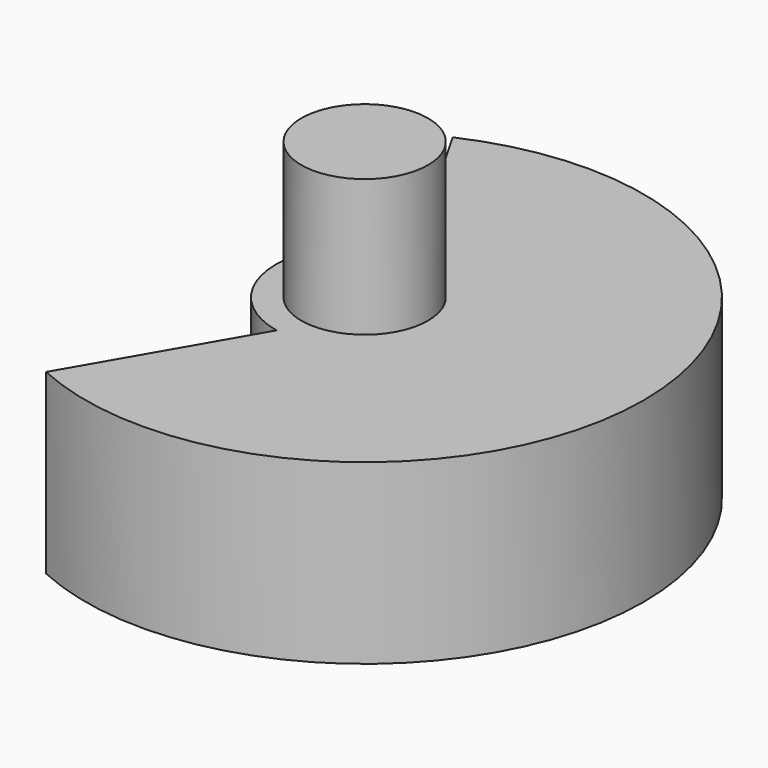
from build123d import *

# Parameters (mm, degrees)
F0_R     = 1.5875
F0_R_2   = 1.6002
F1_DEPTH = 4.445
F2_R     = 1.5875
F3_DEPTH = 7.874
F4_R     = 1.6002
F5_DEPTH = 0.635


with BuildPart() as f1:
    # F0 (on Top) → F1 (new body)
    with BuildSketch(Plane.XY):
        with BuildLine():
            Line((-0.469262, -2.172395), (-2.887193, -6.360373))
            ThreePointArc((-2.887193, -6.360373), (6.985, 0), (-2.887193, 6.360373))
            Line((-2.887193, 6.360373), (-0.469262, 2.172395))
            ThreePointArc((-0.469262, 2.172395), (-2.2225, 0), (-0.469262, -2.172395))
        make_face()
        Circle(F0_R, mode=Mode.SUBTRACT)
        with Locations((4.826, 0)):
            Circle(F0_R_2, mode=Mode.SUBTRACT)
    extrude(amount=F1_DEPTH)

    # F2 (on face) → F3 (join)
    with BuildSketch(Plane(origin=(0, 0, 0), x_dir=(1, 0, 0), z_dir=(0, 0, -1))):
        Circle(F2_R)
    extrude(amount=-F3_DEPTH)

    # F4 (on face) → F5 (join)
    with BuildSketch(Plane.XY.offset(4.445)):
        with Locations((4.826, 0)):
            Circle(F4_R)
    extrude(amount=-F5_DEPTH)


solid = f1.part
